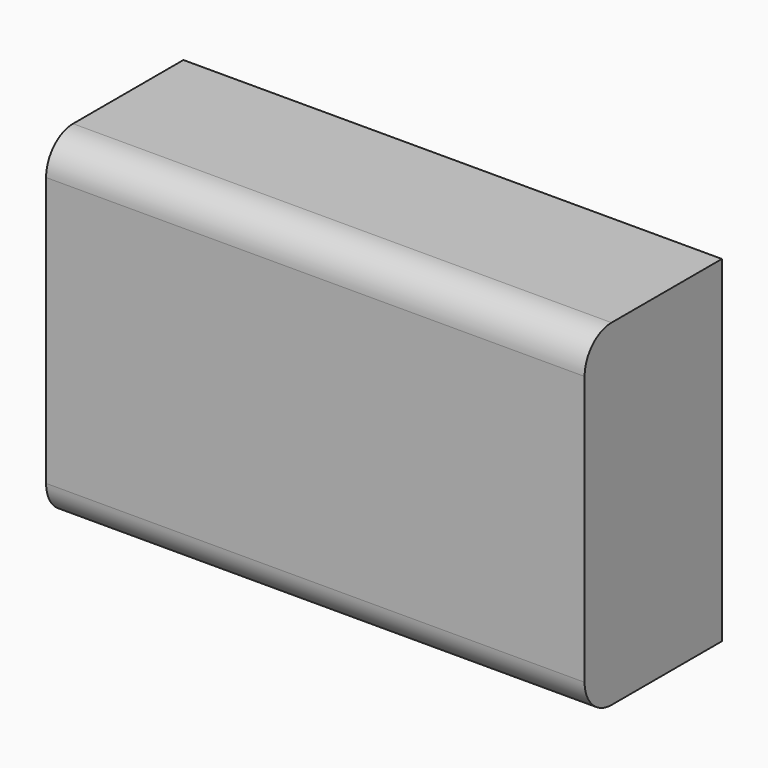
from build123d import *

# Parameters (mm, degrees)
F1_DEPTH = 203.2


with BuildPart() as f1:
    # F0 (on Right) → F1 (new body)
    with BuildSketch(Plane.YZ):
        with BuildLine():
            Line((-19.05, -63.5), (-19.05, 63.5))
            Line((-19.05, 63.5), (-71.12, 63.5))
            ThreePointArc((-71.12, 63.5), (-80.100256, 59.780256), (-83.82, 50.8))
            Line((-83.82, 50.8), (-83.82, -50.8))
            ThreePointArc((-83.82, -50.8), (-80.100256, -59.780256), (-71.12, -63.5))
            Line((-71.12, -63.5), (-19.05, -63.5))
        make_face()
    extrude(amount=F1_DEPTH)


solid = f1.part
